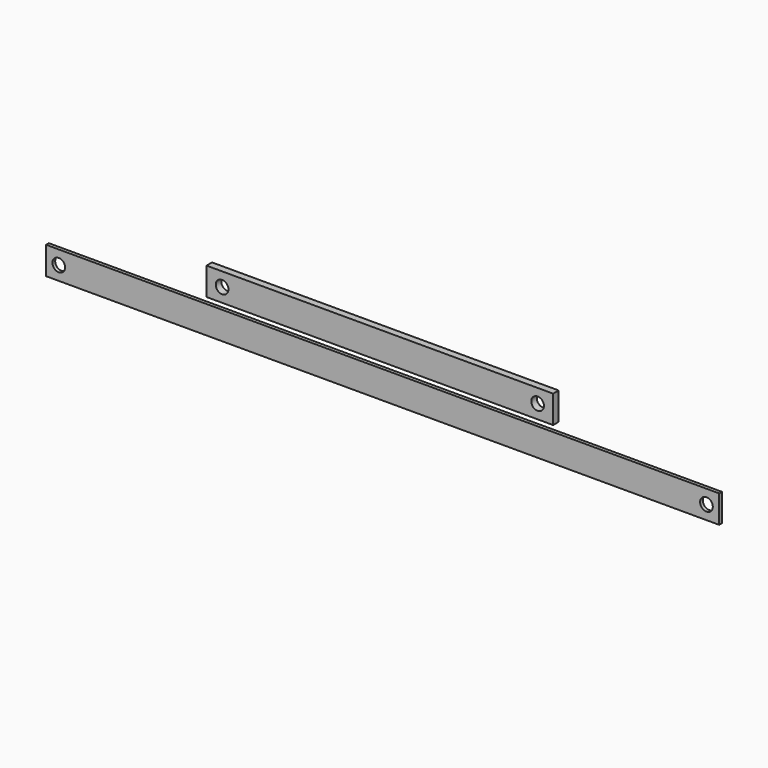
from build123d import *

# Parameters (mm, degrees)
F0_W     = 954.0875
F0_H     = 76.2
F2_DEPTH = 19.05
F1_W     = 1852.6125
F1_H     = 76.2
F3_DEPTH = 9.525
F4_R     = 17.4625
F5_DEPTH = 19.051


with BuildPart() as f2:
    # F0 (on Front) → F2 (new body)
    with BuildSketch(Plane.XZ):
        with Locations((0, 50.867289)):
            Rectangle(F0_W, F0_H)
    extrude(amount=F2_DEPTH)


with BuildPart() as f3:
    # F1 (on Front) → F3 (new body)
    with BuildSketch(Plane.XZ):
        with Locations((0, -48.610255)):
            Rectangle(F1_W, F1_H)
    extrude(amount=F3_DEPTH)


with BuildPart() as f5_tool:
    # F4 (on face) → F5 (new body, through all)
    with BuildSketch(Plane.XZ.offset(19.05)):
        with Locations((-434.18125, 50.867289)):
            Circle(F4_R)
        with Locations((434.18125, 50.867289)):
            Circle(F4_R)
        with Locations((891.38125, -48.610255)):
            Circle(F4_R)
        with Locations((-891.38125, -48.610255)):
            Circle(F4_R)
    extrude(amount=-F5_DEPTH)


with BuildPart() as f2_1:
    add(f2.part)

    # F5: cut by f5_tool
    add(f5_tool.part, mode=Mode.SUBTRACT)


with BuildPart() as f3_1:
    add(f3.part)

    # F5: cut by f5_tool
    add(f5_tool.part, mode=Mode.SUBTRACT)


solid = Compound([f2_1.part, f3_1.part])
